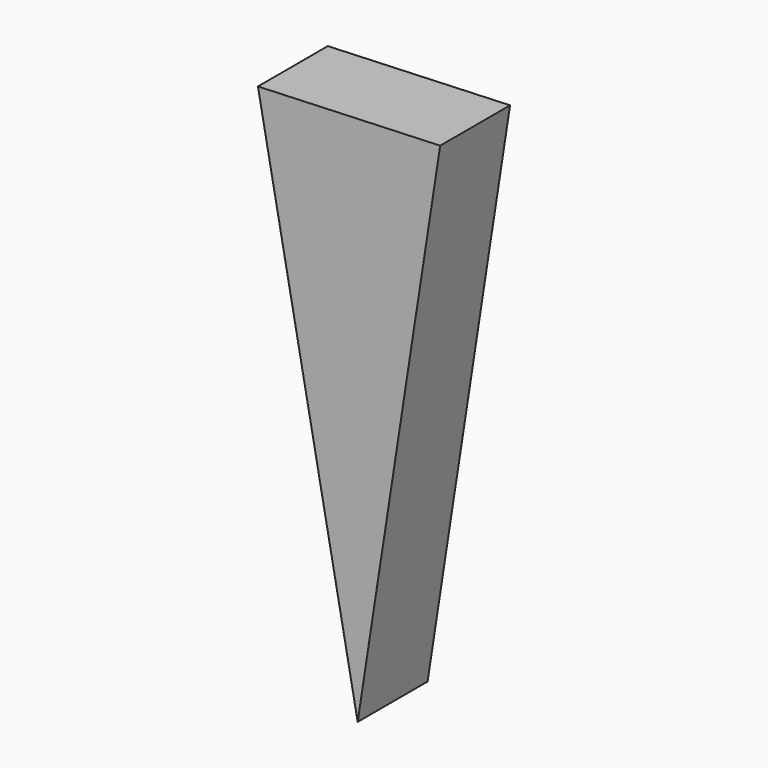
from build123d import *

# Parameters (mm, degrees)
F2_DEPTH = 25


with BuildPart() as f2:
    # F1 (on face) → F2 (new body)
    with BuildSketch(Plane.XZ):
        Polygon((187.891722, 67.518584), (216.433018, -83.284095), (240.037486, 69.559865), align=None)
    extrude(amount=F2_DEPTH)


solid = f2.part
